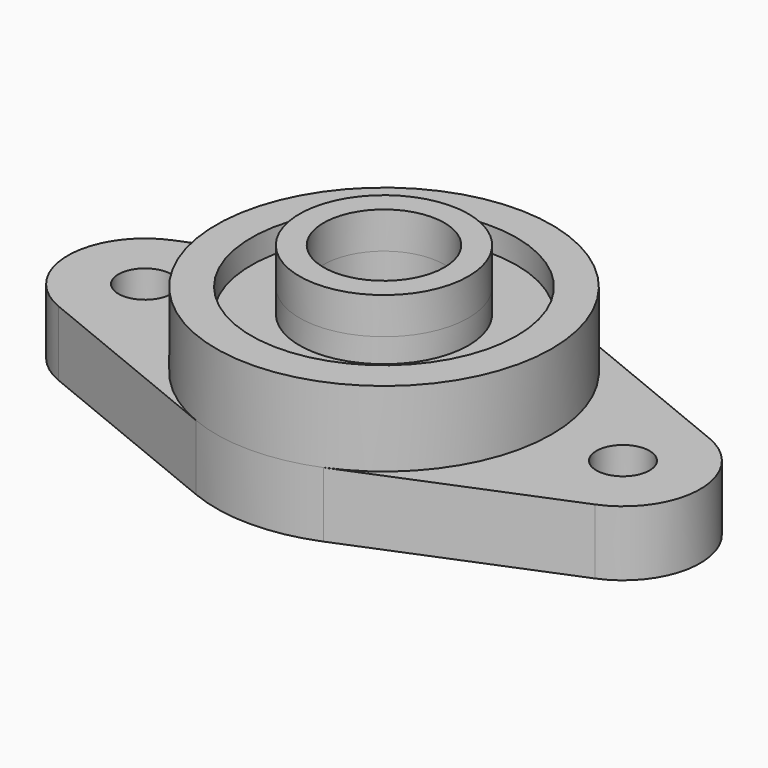
from build123d import *

# Parameters (mm, degrees)
F0_R     = 12.5
F0_R_2   = 5.5
F1_DEPTH = 13.5
F2_R     = 34.75
F2_R_2   = 12.5
F3_DEPTH = 15.6
F4_R     = 17.5
F4_R_2   = 12.5
F5_DEPTH = 7.6
F6_R     = 27.5
F6_R_2   = 17.5
F7_DEPTH = 5


with BuildPart() as f1:
    # F0 (on Top) → F1 (new body)
    with BuildSketch(Plane.XY):
        with BuildLine():
            ThreePointArc((13.162879, -32.160552), (28.852838, -19.366885), (34.75, 0))
            ThreePointArc((34.75, 0), (28.852838, 19.366885), (13.162879, 32.160552))
            ThreePointArc((13.162879, 32.160552), (0, 34.75), (-13.162879, 32.160552))
            ThreePointArc((-13.162879, 32.160552), (-34.75, 0), (-13.162879, -32.160552))
            ThreePointArc((-13.162879, -32.160552), (0, -34.75), (13.162879, -32.160552))
        make_face()
        Circle(F0_R, mode=Mode.SUBTRACT)
        with BuildLine():
            ThreePointArc((13.162879, 32.160552), (28.852838, 19.366885), (34.75, 0))
            ThreePointArc((34.75, 0), (28.852838, -19.366885), (13.162879, -32.160552))
            Line((13.162879, -32.160552), (55.560606, -14.807736))
            ThreePointArc((55.560606, -14.807736), (65.5, 0), (55.560606, 14.807736))
            Line((55.560606, 14.807736), (13.162879, 32.160552))
        make_face()
        with Locations((49.5, 0)):
            Circle(F0_R_2, mode=Mode.SUBTRACT)
        with BuildLine():
            ThreePointArc((-13.162879, -32.160552), (-34.75, 0), (-13.162879, 32.160552))
            Line((-13.162879, 32.160552), (-55.560606, 14.807736))
            ThreePointArc((-55.560606, 14.807736), (-65.5, 0), (-55.560606, -14.807736))
            Line((-55.560606, -14.807736), (-13.162879, -32.160552))
        make_face()
        with Locations((-49.5, 0)):
            Circle(F0_R_2, mode=Mode.SUBTRACT)
    extrude(amount=F1_DEPTH)

    # F2 (on face) → F3 (join)
    with BuildSketch(Plane.XY.offset(13.5)):
        Circle(F2_R)
        Circle(F2_R_2, mode=Mode.SUBTRACT)
    extrude(amount=F3_DEPTH)

    # F6 (on face) → F7 (cut)
    with BuildSketch(Plane.XY.offset(29.1)):
        Circle(F6_R)
        Circle(F6_R_2, mode=Mode.SUBTRACT)
    extrude(amount=-F7_DEPTH, mode=Mode.SUBTRACT)


with BuildPart() as f5:
    # F4 (on face) → F5 (new body)
    with BuildSketch(Plane.XY.offset(29.1)):
        Circle(F4_R)
        Circle(F4_R_2, mode=Mode.SUBTRACT)
    extrude(amount=F5_DEPTH)


solid = Compound([f1.part, f5.part])
